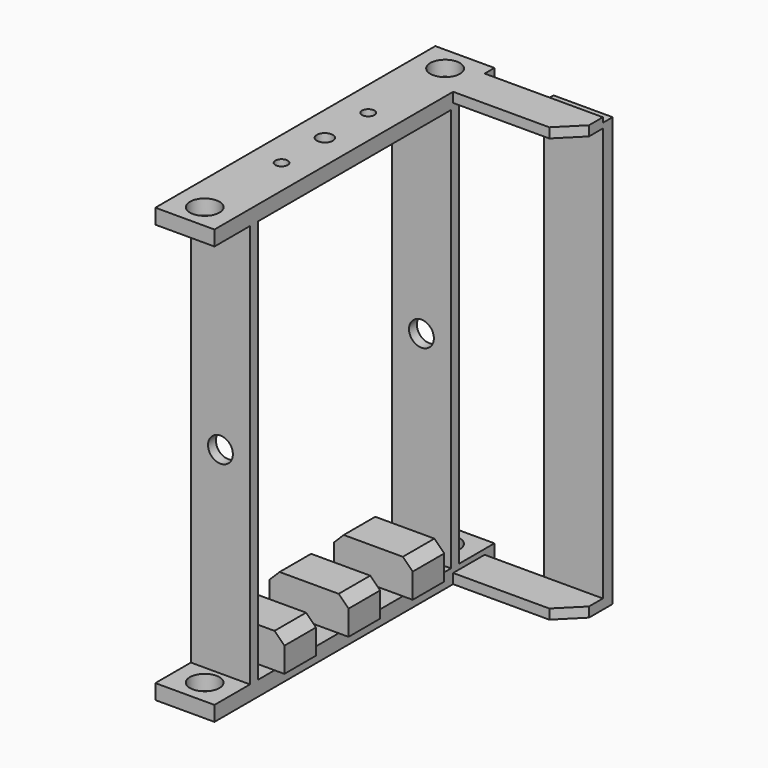
from build123d import *

# Parameters (mm, degrees)
F0_W       = 225.552
F0_H       = 9.652
F1_DEPTH   = 19.05
F3_D       = 19.05
F5_W       = 6.35
F5_H       = 260.096
F6_DEPTH   = 19.05
F9_D       = 16.002
F10_W      = 50.8
F10_H      = 25.4
F11_DEPTH  = 22.352
F12_SIZE   = 6.35
F14_D      = 7.9375
F16_D      = 10.3124
F16_DEPTH  = 28.8925
F16_TIP    = 3.0981575238
F18_D      = 10.3124
F18_DEPTH  = 12.7
F18_TIP    = 3.0981575238
F20_DEPTH  = 6.35
F22_SIZE   = 14.224
F22_2_SIZE = 14.224
F23_W      = 38.1
F23_H      = 276.225
F24_DEPTH  = 7.874


with BuildPart() as f1:
    # F0 (on Right) → F1 (new body, symmetric)
    with BuildSketch(Plane.YZ):
        with Locations((0, 134.874)):
            Rectangle(F0_W, F0_H)
    extrude(amount=F1_DEPTH, both=True)

    # F3 (through all)
    with Locations(Plane.XY.offset(139.7)):
        with Locations((0, -96.8375), (0, 96.8375)):
            Hole(F3_D / 2)


with BuildPart() as f4_1:
    # F4: instance of F1
    add(f1.part.mirror(Plane.XY))


with BuildPart() as f6:
    # F5 (on Right) → F6 (new body, symmetric)
    with BuildSketch(Plane.YZ):
        with Locations((-80.9625, 0)):
            Rectangle(F5_W, F5_H)
    extrude(amount=F6_DEPTH, both=True)


with BuildPart() as f6b:
    # F5 (on Right) → F6, piece 2 (new body, symmetric)
    with BuildSketch(Plane.YZ):
        with Locations((80.9625, 0)):
            Rectangle(F5_W, F5_H)
    extrude(amount=F6_DEPTH, both=True)


with BuildPart() as f1_1:
    add(f1.part)

    # F8: union F6, F6b, F4_1
    add(f6.part)
    add(f6b.part)
    add(f4_1.part)

    # F9 (through all)
    with Locations(Plane(origin=(0, 84.1375, 0), x_dir=(-1, 0, 0), z_dir=(0, 1, 0))):
        with Locations((0, -3.048)):
            Hole(F9_D / 2)

    # F10 (on face) → F11 (join)
    with BuildSketch(Plane.XY.offset(-130.048)):
        with Locations((0, -51.689)):
            Rectangle(F10_W, F10_H)
        Rectangle(F10_W, F10_H)
        with Locations((0, 51.689)):
            Rectangle(F10_W, F10_H)
    extrude(amount=F11_DEPTH)

    # F12
    f12_edges = [f1_1.edges().sort_by_distance(p)[0] for p in [
        (-25.4, -51.689, -107.696),
        (-25.4, 0, -107.696),
        (-25.4, 51.689, -107.696),
        (25.4, 51.689, -107.696),
        (25.4, 0, -107.696),
        (25.4, -51.689, -107.696),
    ]]
    chamfer(f12_edges, length=F12_SIZE)

    # F14 (through all)
    with Locations(Plane.XY.offset(139.7)):
        with Locations((0, -34.925), (0, 34.925)):
            Hole(F14_D / 2)

    # F16
    with Locations(Plane.XY.offset(139.7)):
        with Locations((0, 0)):
            Hole(F16_D / 2, depth=F16_DEPTH)
            with Locations((0, 0, -(F16_DEPTH + F16_TIP / 2))):  # 118° drill point
                Cone(0, F16_D / 2, F16_TIP, mode=Mode.SUBTRACT)

    # F18
    with Locations(Plane(origin=(0, 0, -139.7), x_dir=(1, 0, 0), z_dir=(0, 0, -1))):
        with Locations((0, 0)):
            Hole(F18_D / 2, depth=F18_DEPTH)
            with Locations((0, 0, -(F18_DEPTH + F18_TIP / 2))):  # 118° drill point
                Cone(0, F18_D / 2, F18_TIP, mode=Mode.SUBTRACT)

    # F21: F20 across plane


with BuildPart() as f20:
    # F19 (on face) → F20 (new body)
    with BuildSketch(Plane.XY.offset(139.7)):
        Polygon((19.05, 104.902), (19.05, 79.502), (73.2887461782, 79.502), (95.25, 79.502), (95.25, 104.902), align=None)
    extrude(amount=-F20_DEPTH)


with BuildPart() as f1_2:
    add(f1_1.part)
    add(f20.part.mirror(Plane.XY))

    # F22#2
    f22_2_edges = [f1_2.edges().sort_by_distance(p)[0] for p in [
        (95.25, 79.502, -136.525),
    ]]
    chamfer(f22_2_edges, length=F22_2_SIZE)



with BuildPart() as f20_1:
    add(f20.part)

    # F22
    f22_edges = [f20_1.edges().sort_by_distance(p)[0] for p in [
        (95.25, 79.502, 136.525),
    ]]
    chamfer(f22_edges, length=F22_SIZE)


with BuildPart() as f1_3:
    add(f1_2.part)

    add(f20_1.part)  # F24 merges F20
    # F23 (on face) → F24 (join)
    with BuildSketch(Plane(origin=(0, 104.902, 0), x_dir=(-1, 0, 0), z_dir=(0, 1, 0))):
        with Locations((-76.2, -1.5875)):
            Rectangle(F23_W, F23_H)
    extrude(amount=F24_DEPTH)


solid = f1_3.part
